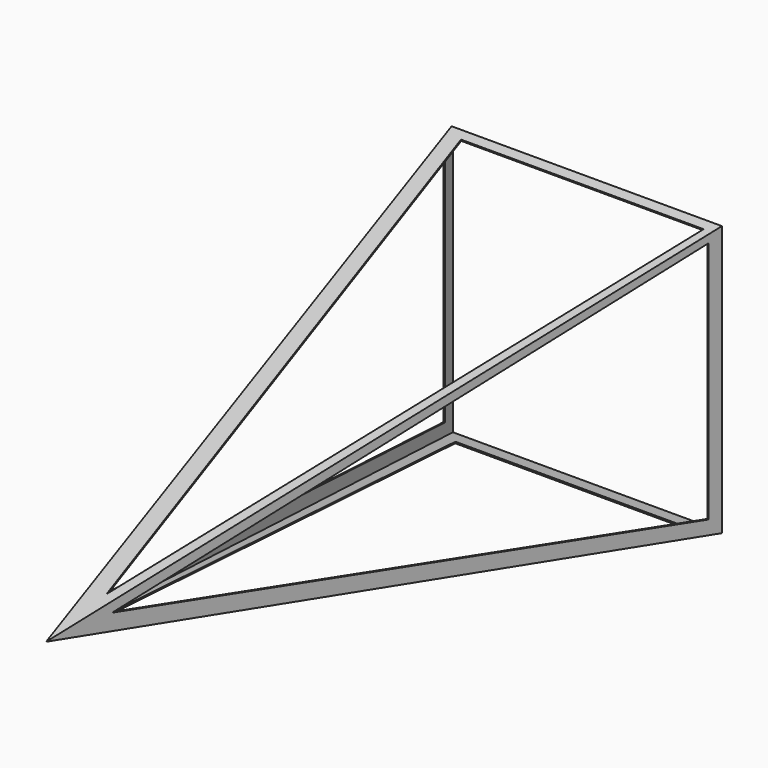
from build123d import *

# Parameters (mm, degrees)
F0_W      = 508
F0_H      = 508
F4_T      = -2.54
F7_DEPTH  = 25.4
F10_DEPTH = 25.4
F13_DEPTH = 25.4
F16_DEPTH = 25.4


with BuildPart() as f3:
    # F0 (on Front) → F3 section 0
    with BuildSketch(Plane.XZ, mode=Mode.PRIVATE) as f3_s0:
        with Locations((-254, 254)):
            Rectangle(F0_W, F0_H)
    loft([f3_s0.sketch, Vertex(-254, -1270, 254)])

    # F4
    f4_openings = [f3.faces().sort_by_distance(p)[0] for p in [
        (-254, 0, 254),
    ]]
    offset(amount=F4_T, openings=f4_openings)

    # F6 (on offset) → F7 (cut)
    with BuildSketch(Plane(origin=(0, 0, 0), x_dir=(0.1961161351, 0.9805806757, 0), z_dir=(0.9805806757, -0.1961161351, 0))):
        Polygon((-25.4, 31.1354669124), (-25.4, 488.3354669124), (-1168.4, 259.7354669124), align=None)
    extrude(amount=-F7_DEPTH, mode=Mode.SUBTRACT)

    # F9 (on offset) → F10 (cut)
    with BuildSketch(Plane(origin=(-488.4615384615, -97.6923076923, 0), x_dir=(0.1961161351, -0.9805806757, 0), z_dir=(-0.9805806757, -0.1961161351, 0))):
        Polygon((813.1548545488, 310.3141247361), (-73.7252337318, 487.6901423922), (-73.7252337318, 254), (1043.8240543072, 254), (1059.226906247, 257.080570388), align=None)
        Polygon((1043.8240543072, 254), (-73.7252337318, 254), (-73.7252337318, 30.4901423922), align=None)
    extrude(amount=-F10_DEPTH, mode=Mode.SUBTRACT)

    # F12 (on offset) → F13 (cut)
    with BuildSketch(Plane(origin=(0, -97.6923076923, 488.4615384615), x_dir=(1, 0, 0), z_dir=(0, -0.1961161351, 0.9805806757))):
        Polygon((-247.3090775045, -1059.2242055456), (-19.3738871979, 80.4517459869), (-254, 80.4517459869), (-254, -1025.7695930679), align=None)
        Polygon((-254, 80.4517459869), (-475.244267811, 80.4517459869), (-254, -1025.7695930679), align=None)
    extrude(amount=-F13_DEPTH, mode=Mode.SUBTRACT)

    # F15 (on offset) → F16 (cut)
    with BuildSketch(Plane(origin=(0, 0, 0), x_dir=(1, 0, 0), z_dir=(0, -0.1961161351, -0.9805806757))):
        Polygon((-44.116795063, 31.3945114613), (-260.3600621223, 1206.6667079926), (-476.6033291817, 31.3945114613), align=None)
    extrude(amount=-F16_DEPTH, mode=Mode.SUBTRACT)


solid = f3.part
